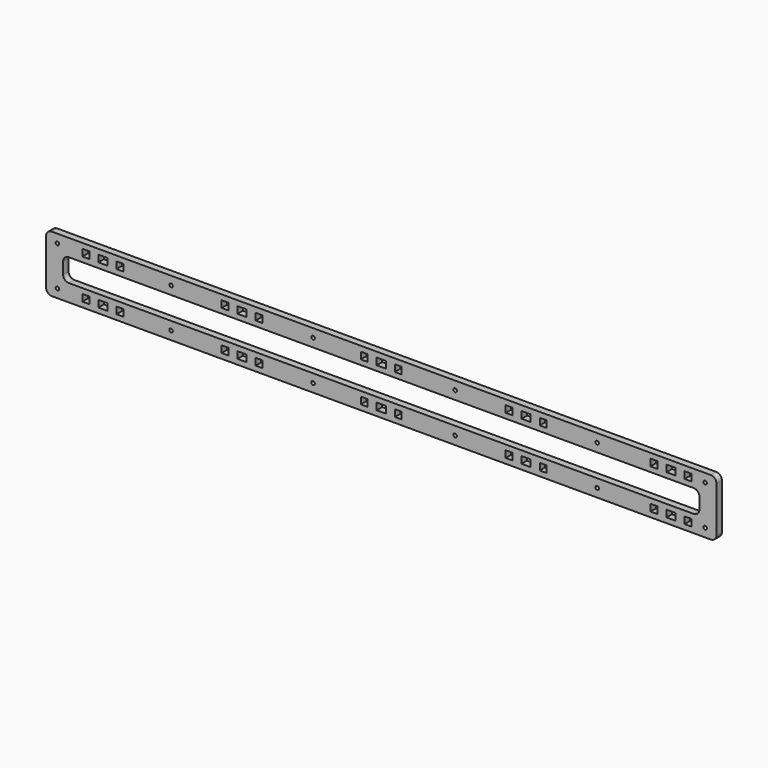
from build123d import *

# Parameters (mm, degrees)
F0_R     = 1.55
F0_W     = 6
F0_H     = 6
F0_W_2   = 8
F1_DEPTH = 6


with BuildPart() as f1:
    # F0 (on Front) → F1 (new body)
    with BuildSketch(Plane.XZ):
        with BuildLine():
            Line((290, 33.159883), (-290, 33.159883))
            ThreePointArc((-290, 33.159883), (-293.535534, 31.695417), (-295, 28.159883))
            Line((-295, 28.159883), (-295, -11.840117))
            ThreePointArc((-295, -11.840117), (-293.535534, -15.375651), (-290, -16.840117))
            Line((-290, -16.840117), (290, -16.840117))
            ThreePointArc((290, -16.840117), (293.535534, -15.375651), (295, -11.840117))
            Line((295, -11.840117), (295, 28.159883))
            ThreePointArc((295, 28.159883), (293.535534, 31.695417), (290, 33.159883))
        make_face()
        with Locations((-285, -9.340117)):
            Circle(F0_R, mode=Mode.SUBTRACT)
        with Locations((-260, -9.340117)):
            Rectangle(F0_W, F0_H, mode=Mode.SUBTRACT)
        with Locations((-245, -9.340117)):
            Rectangle(F0_W_2, F0_H, mode=Mode.SUBTRACT)
        with Locations((-230, -9.340117)):
            Rectangle(F0_W, F0_H, mode=Mode.SUBTRACT)
        with Locations((-185, -9.340117)):
            Circle(F0_R, mode=Mode.SUBTRACT)
        with Locations((-137.5, -9.304218)):
            Rectangle(F0_W, F0_H, mode=Mode.SUBTRACT)
        with Locations((-122.5, -9.304218)):
            Rectangle(F0_W_2, F0_H, mode=Mode.SUBTRACT)
        with Locations((-107.5, -9.304218)):
            Rectangle(F0_W, F0_H, mode=Mode.SUBTRACT)
        with Locations((-60, -9.340117)):
            Circle(F0_R, mode=Mode.SUBTRACT)
        with Locations((-15, -9.268318)):
            Rectangle(F0_W, F0_H, mode=Mode.SUBTRACT)
        with Locations((0, -9.268318)):
            Rectangle(F0_W_2, F0_H, mode=Mode.SUBTRACT)
        with Locations((15, -9.268318)):
            Rectangle(F0_W, F0_H, mode=Mode.SUBTRACT)
        with Locations((65, -9.340117)):
            Circle(F0_R, mode=Mode.SUBTRACT)
        with Locations((112.5, -9.304218)):
            Rectangle(F0_W, F0_H, mode=Mode.SUBTRACT)
        with Locations((127.5, -9.304218)):
            Rectangle(F0_W_2, F0_H, mode=Mode.SUBTRACT)
        with Locations((142.5, -9.304218)):
            Rectangle(F0_W, F0_H, mode=Mode.SUBTRACT)
        with Locations((190, -9.340117)):
            Circle(F0_R, mode=Mode.SUBTRACT)
        with Locations((240, -9.340117)):
            Rectangle(F0_W, F0_H, mode=Mode.SUBTRACT)
        with Locations((255, -9.340117)):
            Rectangle(F0_W_2, F0_H, mode=Mode.SUBTRACT)
        with Locations((270, -9.340117)):
            Rectangle(F0_W, F0_H, mode=Mode.SUBTRACT)
        with Locations((285, -9.340117)):
            Circle(F0_R, mode=Mode.SUBTRACT)
        with Locations((-285, 25.659883)):
            Circle(F0_R, mode=Mode.SUBTRACT)
        with Locations((-260, 25.659883)):
            Rectangle(F0_W, F0_H, mode=Mode.SUBTRACT)
        with Locations((-245, 25.659883)):
            Rectangle(F0_W_2, F0_H, mode=Mode.SUBTRACT)
        with Locations((-230, 25.659883)):
            Rectangle(F0_W, F0_H, mode=Mode.SUBTRACT)
        with Locations((-185, 25.659883)):
            Circle(F0_R, mode=Mode.SUBTRACT)
        with Locations((-137.5, 25.623984)):
            Rectangle(F0_W, F0_H, mode=Mode.SUBTRACT)
        with Locations((-122.5, 25.623984)):
            Rectangle(F0_W_2, F0_H, mode=Mode.SUBTRACT)
        with Locations((-107.5, 25.623984)):
            Rectangle(F0_W, F0_H, mode=Mode.SUBTRACT)
        with Locations((-60, 25.659883)):
            Circle(F0_R, mode=Mode.SUBTRACT)
        with Locations((-15, 25.588085)):
            Rectangle(F0_W, F0_H, mode=Mode.SUBTRACT)
        with BuildLine():
            ThreePointArc((-280, 13.159883), (-278.535534, 16.695417), (-275, 18.159883))
            Line((-275, 18.159883), (275, 18.159883))
            ThreePointArc((275, 18.159883), (278.535534, 16.695417), (280, 13.159883))
            Line((280, 13.159883), (280, 3.159883))
            ThreePointArc((280, 3.159883), (278.535534, -0.375651), (275, -1.840117))
            Line((275, -1.840117), (-275, -1.840117))
            ThreePointArc((-275, -1.840117), (-278.535534, -0.375651), (-280, 3.159883))
            Line((-280, 3.159883), (-280, 13.159883))
        make_face(mode=Mode.SUBTRACT)
        with Locations((0, 25.588085)):
            Rectangle(F0_W_2, F0_H, mode=Mode.SUBTRACT)
        with Locations((15, 25.588085)):
            Rectangle(F0_W, F0_H, mode=Mode.SUBTRACT)
        with Locations((65, 25.659883)):
            Circle(F0_R, mode=Mode.SUBTRACT)
        with Locations((112.5, 25.623984)):
            Rectangle(F0_W, F0_H, mode=Mode.SUBTRACT)
        with Locations((127.5, 25.623984)):
            Rectangle(F0_W_2, F0_H, mode=Mode.SUBTRACT)
        with Locations((142.5, 25.623984)):
            Rectangle(F0_W, F0_H, mode=Mode.SUBTRACT)
        with Locations((190, 25.659883)):
            Circle(F0_R, mode=Mode.SUBTRACT)
        with Locations((240, 25.659883)):
            Rectangle(F0_W, F0_H, mode=Mode.SUBTRACT)
        with Locations((255, 25.659883)):
            Rectangle(F0_W_2, F0_H, mode=Mode.SUBTRACT)
        with Locations((270, 25.659883)):
            Rectangle(F0_W, F0_H, mode=Mode.SUBTRACT)
        with Locations((285, 25.659883)):
            Circle(F0_R, mode=Mode.SUBTRACT)
    extrude(amount=F1_DEPTH)


solid = f1.part
